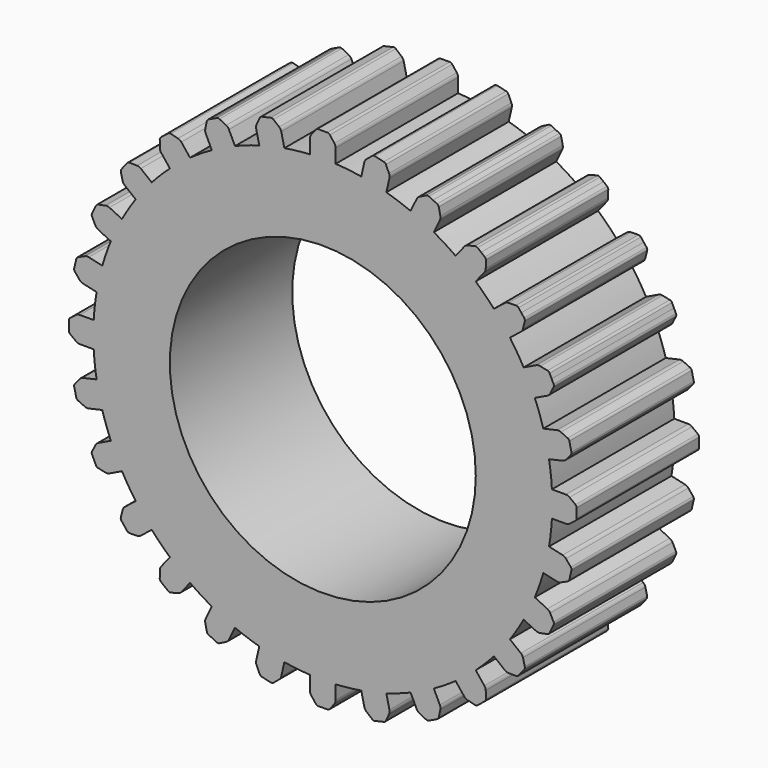
from build123d import *

# Parameters (mm, degrees)
F0_R     = 5
F1_DEPTH = 2.5


with BuildPart() as f1:
    # F0 (on Front) → F1 (new body, symmetric)
    with BuildSketch(Plane.XZ):
        with BuildLine():
            ThreePointArc((7.206926, 2.076106), (7.311959, 1.668907), (7.394005, 1.256461))
            Line((7.394005, 1.256461), (7.838439, 1.3579))
            ThreePointArc((7.838439, 1.3579), (7.898762, 1.382559), (7.947955, 1.425301))
            Line((7.947955, 1.425301), (8.104797, 1.61464))
            ThreePointArc((8.104797, 1.61464), (8.125069, 1.655275), (8.12528, 1.700685))
            Line((8.12528, 1.700685), (8.091902, 1.846924))
            Line((8.091902, 1.846924), (8.058524, 1.993163))
            ThreePointArc((8.058524, 1.993163), (8.038631, 2.033984), (8.002736, 2.061799))
            Line((8.002736, 2.061799), (7.779275, 2.164336))
            ThreePointArc((7.779275, 2.164336), (7.716408, 2.181502), (7.65136, 2.177545))
            Line((7.65136, 2.177545), (7.206926, 2.076106))
        make_face()
        with BuildLine():
            ThreePointArc((6.564256, 3.627746), (6.757267, 3.254128), (6.929033, 2.87028))
            Line((6.929033, 2.87028), (7.339752, 3.068072))
            ThreePointArc((7.339752, 3.068072), (7.393075, 3.105535), (7.431523, 3.158152))
            Line((7.431523, 3.158152), (7.542301, 3.377645))
            ThreePointArc((7.542301, 3.377645), (7.553023, 3.421771), (7.543124, 3.46609))
            Line((7.543124, 3.46609), (7.478042, 3.601235))
            Line((7.478042, 3.601235), (7.412959, 3.73638))
            ThreePointArc((7.412959, 3.73638), (7.384481, 3.771752), (7.343297, 3.790882))
            Line((7.343297, 3.790882), (7.102622, 3.841123))
            ThreePointArc((7.102622, 3.841123), (7.037512, 3.843869), (6.974976, 3.825537))
            Line((6.974976, 3.825537), (6.564256, 3.627746))
        make_face()
        with BuildLine():
            ThreePointArc((5.592427, 4.997475), (5.863736, 4.676174), (6.11661, 4.340171))
            Line((6.11661, 4.340171), (6.473019, 4.624397))
            ThreePointArc((6.473019, 4.624397), (6.516668, 4.672787), (6.542445, 4.73264))
            Line((6.542445, 4.73264), (6.601604, 4.97128))
            ThreePointArc((6.601604, 4.97128), (6.602237, 5.016686), (6.582725, 5.057691))
            Line((6.582725, 5.057691), (6.489201, 5.174965))
            Line((6.489201, 5.174965), (6.395678, 5.29224))
            ThreePointArc((6.395678, 5.29224), (6.360043, 5.320388), (6.315635, 5.329874))
            Line((6.315635, 5.329874), (6.069814, 5.3253))
            ThreePointArc((6.069814, 5.3253), (6.005725, 5.313489), (5.948836, 5.281701))
            Line((5.948836, 5.281701), (5.592427, 4.997475))
        make_face()
        with BuildLine():
            ThreePointArc((4.340171, 6.11661), (4.676174, 5.863736), (4.997475, 5.592427))
            Line((4.997475, 5.592427), (5.281701, 5.948836))
            ThreePointArc((5.281701, 5.948836), (5.313489, 6.005725), (5.3253, 6.069814))
            Line((5.3253, 6.069814), (5.329874, 6.315635))
            ThreePointArc((5.329874, 6.315635), (5.320388, 6.360043), (5.29224, 6.395678))
            Line((5.29224, 6.395678), (5.174965, 6.489201))
            Line((5.174965, 6.489201), (5.057691, 6.582725))
            ThreePointArc((5.057691, 6.582725), (5.016686, 6.602237), (4.97128, 6.601604))
            Line((4.97128, 6.601604), (4.73264, 6.542445))
            ThreePointArc((4.73264, 6.542445), (4.672787, 6.516668), (4.624397, 6.473019))
            Line((4.624397, 6.473019), (4.340171, 6.11661))
        make_face()
        with BuildLine():
            ThreePointArc((2.87028, 6.929033), (3.254128, 6.757267), (3.627746, 6.564256))
            Line((3.627746, 6.564256), (3.825537, 6.974976))
            ThreePointArc((3.825537, 6.974976), (3.843869, 7.037512), (3.841123, 7.102622))
            Line((3.841123, 7.102622), (3.790882, 7.343297))
            ThreePointArc((3.790882, 7.343297), (3.771752, 7.384481), (3.73638, 7.412959))
            Line((3.73638, 7.412959), (3.601235, 7.478042))
            Line((3.601235, 7.478042), (3.46609, 7.543124))
            ThreePointArc((3.46609, 7.543124), (3.421771, 7.553023), (3.377645, 7.542301))
            Line((3.377645, 7.542301), (3.158152, 7.431523))
            ThreePointArc((3.158152, 7.431523), (3.105535, 7.393075), (3.068072, 7.339752))
            Line((3.068072, 7.339752), (2.87028, 6.929033))
        make_face()
        with BuildLine():
            ThreePointArc((1.256461, 7.394005), (1.668907, 7.311959), (2.076106, 7.206926))
            Line((2.076106, 7.206926), (2.177545, 7.65136))
            ThreePointArc((2.177545, 7.65136), (2.181502, 7.716408), (2.164336, 7.779275))
            Line((2.164336, 7.779275), (2.061799, 8.002736))
            ThreePointArc((2.061799, 8.002736), (2.033984, 8.038631), (1.993163, 8.058524))
            Line((1.993163, 8.058524), (1.846924, 8.091902))
            Line((1.846924, 8.091902), (1.700685, 8.12528))
            ThreePointArc((1.700685, 8.12528), (1.655275, 8.125069), (1.61464, 8.104797))
            Line((1.61464, 8.104797), (1.425301, 7.947955))
            ThreePointArc((1.425301, 7.947955), (1.382559, 7.898762), (1.3579, 7.838439))
            Line((1.3579, 7.838439), (1.256461, 7.394005))
        make_face()
        with BuildLine():
            ThreePointArc((-2.076106, 7.206926), (-1.668907, 7.311959), (-1.256461, 7.394005))
            Line((-1.256461, 7.394005), (-1.3579, 7.838439))
            ThreePointArc((-1.3579, 7.838439), (-1.382559, 7.898762), (-1.425301, 7.947955))
            Line((-1.425301, 7.947955), (-1.61464, 8.104797))
            ThreePointArc((-1.61464, 8.104797), (-1.655275, 8.125069), (-1.700685, 8.12528))
            Line((-1.700685, 8.12528), (-1.846924, 8.091902))
            Line((-1.846924, 8.091902), (-1.993163, 8.058524))
            ThreePointArc((-1.993163, 8.058524), (-2.033984, 8.038631), (-2.061799, 8.002736))
            Line((-2.061799, 8.002736), (-2.164336, 7.779275))
            ThreePointArc((-2.164336, 7.779275), (-2.181502, 7.716408), (-2.177545, 7.65136))
            Line((-2.177545, 7.65136), (-2.076106, 7.206926))
        make_face()
        with BuildLine():
            ThreePointArc((-3.627746, 6.564256), (-3.254128, 6.757267), (-2.87028, 6.929033))
            Line((-2.87028, 6.929033), (-3.068072, 7.339752))
            ThreePointArc((-3.068072, 7.339752), (-3.105535, 7.393075), (-3.158152, 7.431523))
            Line((-3.158152, 7.431523), (-3.377645, 7.542301))
            ThreePointArc((-3.377645, 7.542301), (-3.421771, 7.553023), (-3.46609, 7.543124))
            Line((-3.46609, 7.543124), (-3.601235, 7.478042))
            Line((-3.601235, 7.478042), (-3.73638, 7.412959))
            ThreePointArc((-3.73638, 7.412959), (-3.771752, 7.384481), (-3.790882, 7.343297))
            Line((-3.790882, 7.343297), (-3.841123, 7.102622))
            ThreePointArc((-3.841123, 7.102622), (-3.843869, 7.037512), (-3.825537, 6.974976))
            Line((-3.825537, 6.974976), (-3.627746, 6.564256))
        make_face()
        with BuildLine():
            ThreePointArc((-4.997475, 5.592427), (-4.676174, 5.863736), (-4.340171, 6.11661))
            Line((-4.340171, 6.11661), (-4.624397, 6.473019))
            ThreePointArc((-4.624397, 6.473019), (-4.672787, 6.516668), (-4.73264, 6.542445))
            Line((-4.73264, 6.542445), (-4.97128, 6.601604))
            ThreePointArc((-4.97128, 6.601604), (-5.016686, 6.602237), (-5.057691, 6.582725))
            Line((-5.057691, 6.582725), (-5.174965, 6.489201))
            Line((-5.174965, 6.489201), (-5.29224, 6.395678))
            ThreePointArc((-5.29224, 6.395678), (-5.320388, 6.360043), (-5.329874, 6.315635))
            Line((-5.329874, 6.315635), (-5.3253, 6.069814))
            ThreePointArc((-5.3253, 6.069814), (-5.313489, 6.005725), (-5.281701, 5.948836))
            Line((-5.281701, 5.948836), (-4.997475, 5.592427))
        make_face()
        with BuildLine():
            ThreePointArc((-6.11661, 4.340171), (-5.863736, 4.676174), (-5.592427, 4.997475))
            Line((-5.592427, 4.997475), (-5.948836, 5.281701))
            ThreePointArc((-5.948836, 5.281701), (-6.005725, 5.313489), (-6.069814, 5.3253))
            Line((-6.069814, 5.3253), (-6.315635, 5.329874))
            ThreePointArc((-6.315635, 5.329874), (-6.360043, 5.320388), (-6.395678, 5.29224))
            Line((-6.395678, 5.29224), (-6.489201, 5.174965))
            Line((-6.489201, 5.174965), (-6.582725, 5.057691))
            ThreePointArc((-6.582725, 5.057691), (-6.602237, 5.016686), (-6.601604, 4.97128))
            Line((-6.601604, 4.97128), (-6.542445, 4.73264))
            ThreePointArc((-6.542445, 4.73264), (-6.516668, 4.672787), (-6.473019, 4.624397))
            Line((-6.473019, 4.624397), (-6.11661, 4.340171))
        make_face()
        with BuildLine():
            ThreePointArc((-6.929033, 2.87028), (-6.757267, 3.254128), (-6.564256, 3.627746))
            Line((-6.564256, 3.627746), (-6.974976, 3.825537))
            ThreePointArc((-6.974976, 3.825537), (-7.037512, 3.843869), (-7.102622, 3.841123))
            Line((-7.102622, 3.841123), (-7.343297, 3.790882))
            ThreePointArc((-7.343297, 3.790882), (-7.384481, 3.771752), (-7.412959, 3.73638))
            Line((-7.412959, 3.73638), (-7.478042, 3.601235))
            Line((-7.478042, 3.601235), (-7.543124, 3.46609))
            ThreePointArc((-7.543124, 3.46609), (-7.553023, 3.421771), (-7.542301, 3.377645))
            Line((-7.542301, 3.377645), (-7.431523, 3.158152))
            ThreePointArc((-7.431523, 3.158152), (-7.393075, 3.105535), (-7.339752, 3.068072))
            Line((-7.339752, 3.068072), (-6.929033, 2.87028))
        make_face()
        with BuildLine():
            ThreePointArc((-7.394005, 1.256461), (-7.311959, 1.668907), (-7.206926, 2.076106))
            Line((-7.206926, 2.076106), (-7.65136, 2.177545))
            ThreePointArc((-7.65136, 2.177545), (-7.716408, 2.181502), (-7.779275, 2.164336))
            Line((-7.779275, 2.164336), (-8.002736, 2.061799))
            ThreePointArc((-8.002736, 2.061799), (-8.038631, 2.033984), (-8.058524, 1.993163))
            Line((-8.058524, 1.993163), (-8.091902, 1.846924))
            Line((-8.091902, 1.846924), (-8.12528, 1.700685))
            ThreePointArc((-8.12528, 1.700685), (-8.125069, 1.655275), (-8.104797, 1.61464))
            Line((-8.104797, 1.61464), (-7.947955, 1.425301))
            ThreePointArc((-7.947955, 1.425301), (-7.898762, 1.382559), (-7.838439, 1.3579))
            Line((-7.838439, 1.3579), (-7.394005, 1.256461))
        make_face()
        with BuildLine():
            Line((-7.944074, -0.420362), (-7.48821, -0.420362))
            ThreePointArc((-7.48821, -0.420362), (-7.5, 0), (-7.48821, 0.420362))
            Line((-7.48821, 0.420362), (-7.944074, 0.420362))
            ThreePointArc((-7.944074, 0.420362), (-8.008371, 0.409745), (-8.065842, 0.37902))
            Line((-8.065842, 0.37902), (-8.260884, 0.229329))
            ThreePointArc((-8.260884, 0.229329), (-8.289689, 0.194224), (-8.3, 0.15))
            Line((-8.3, 0.15), (-8.3, 0))
            Line((-8.3, 0), (-8.3, -0.15))
            ThreePointArc((-8.3, -0.15), (-8.289689, -0.194224), (-8.260884, -0.229329))
            Line((-8.260884, -0.229329), (-8.065842, -0.37902))
            ThreePointArc((-8.065842, -0.37902), (-8.008371, -0.409745), (-7.944074, -0.420362))
        make_face()
        with BuildLine():
            Line((-7.65136, -2.177545), (-7.206926, -2.076106))
            ThreePointArc((-7.206926, -2.076106), (-7.311959, -1.668907), (-7.394005, -1.256461))
            Line((-7.394005, -1.256461), (-7.838439, -1.3579))
            ThreePointArc((-7.838439, -1.3579), (-7.898762, -1.382559), (-7.947955, -1.425301))
            Line((-7.947955, -1.425301), (-8.104797, -1.61464))
            ThreePointArc((-8.104797, -1.61464), (-8.125069, -1.655275), (-8.12528, -1.700685))
            Line((-8.12528, -1.700685), (-8.091902, -1.846924))
            Line((-8.091902, -1.846924), (-8.058524, -1.993163))
            ThreePointArc((-8.058524, -1.993163), (-8.038631, -2.033984), (-8.002736, -2.061799))
            Line((-8.002736, -2.061799), (-7.779275, -2.164336))
            ThreePointArc((-7.779275, -2.164336), (-7.716408, -2.181502), (-7.65136, -2.177545))
        make_face()
        with BuildLine():
            Line((-6.974976, -3.825537), (-6.564256, -3.627746))
            ThreePointArc((-6.564256, -3.627746), (-6.757267, -3.254128), (-6.929033, -2.87028))
            Line((-6.929033, -2.87028), (-7.339752, -3.068072))
            ThreePointArc((-7.339752, -3.068072), (-7.393075, -3.105535), (-7.431523, -3.158152))
            Line((-7.431523, -3.158152), (-7.542301, -3.377645))
            ThreePointArc((-7.542301, -3.377645), (-7.553023, -3.421771), (-7.543124, -3.46609))
            Line((-7.543124, -3.46609), (-7.478042, -3.601235))
            Line((-7.478042, -3.601235), (-7.412959, -3.73638))
            ThreePointArc((-7.412959, -3.73638), (-7.384481, -3.771752), (-7.343297, -3.790882))
            Line((-7.343297, -3.790882), (-7.102622, -3.841123))
            ThreePointArc((-7.102622, -3.841123), (-7.037512, -3.843869), (-6.974976, -3.825537))
        make_face()
        with BuildLine():
            Line((-5.948836, -5.281701), (-5.592427, -4.997475))
            ThreePointArc((-5.592427, -4.997475), (-5.863736, -4.676174), (-6.11661, -4.340171))
            Line((-6.11661, -4.340171), (-6.473019, -4.624397))
            ThreePointArc((-6.473019, -4.624397), (-6.516668, -4.672787), (-6.542445, -4.73264))
            Line((-6.542445, -4.73264), (-6.601604, -4.97128))
            ThreePointArc((-6.601604, -4.97128), (-6.602237, -5.016686), (-6.582725, -5.057691))
            Line((-6.582725, -5.057691), (-6.489201, -5.174965))
            Line((-6.489201, -5.174965), (-6.395678, -5.29224))
            ThreePointArc((-6.395678, -5.29224), (-6.360043, -5.320388), (-6.315635, -5.329874))
            Line((-6.315635, -5.329874), (-6.069814, -5.3253))
            ThreePointArc((-6.069814, -5.3253), (-6.005725, -5.313489), (-5.948836, -5.281701))
        make_face()
        with BuildLine():
            Line((-4.624397, -6.473019), (-4.340171, -6.11661))
            ThreePointArc((-4.340171, -6.11661), (-4.676174, -5.863736), (-4.997475, -5.592427))
            Line((-4.997475, -5.592427), (-5.281701, -5.948836))
            ThreePointArc((-5.281701, -5.948836), (-5.313489, -6.005725), (-5.3253, -6.069814))
            Line((-5.3253, -6.069814), (-5.329874, -6.315635))
            ThreePointArc((-5.329874, -6.315635), (-5.320388, -6.360043), (-5.29224, -6.395678))
            Line((-5.29224, -6.395678), (-5.174965, -6.489201))
            Line((-5.174965, -6.489201), (-5.057691, -6.582725))
            ThreePointArc((-5.057691, -6.582725), (-5.016686, -6.602237), (-4.97128, -6.601604))
            Line((-4.97128, -6.601604), (-4.73264, -6.542445))
            ThreePointArc((-4.73264, -6.542445), (-4.672787, -6.516668), (-4.624397, -6.473019))
        make_face()
        with BuildLine():
            Line((-3.068072, -7.339752), (-2.87028, -6.929033))
            ThreePointArc((-2.87028, -6.929033), (-3.254128, -6.757267), (-3.627746, -6.564256))
            Line((-3.627746, -6.564256), (-3.825537, -6.974976))
            ThreePointArc((-3.825537, -6.974976), (-3.843869, -7.037512), (-3.841123, -7.102622))
            Line((-3.841123, -7.102622), (-3.790882, -7.343297))
            ThreePointArc((-3.790882, -7.343297), (-3.771752, -7.384481), (-3.73638, -7.412959))
            Line((-3.73638, -7.412959), (-3.601235, -7.478042))
            Line((-3.601235, -7.478042), (-3.46609, -7.543124))
            ThreePointArc((-3.46609, -7.543124), (-3.421771, -7.553023), (-3.377645, -7.542301))
            Line((-3.377645, -7.542301), (-3.158152, -7.431523))
            ThreePointArc((-3.158152, -7.431523), (-3.105535, -7.393075), (-3.068072, -7.339752))
        make_face()
        with BuildLine():
            Line((-1.3579, -7.838439), (-1.256461, -7.394005))
            ThreePointArc((-1.256461, -7.394005), (-1.668907, -7.311959), (-2.076106, -7.206926))
            Line((-2.076106, -7.206926), (-2.177545, -7.65136))
            ThreePointArc((-2.177545, -7.65136), (-2.181502, -7.716408), (-2.164336, -7.779275))
            Line((-2.164336, -7.779275), (-2.061799, -8.002736))
            ThreePointArc((-2.061799, -8.002736), (-2.033984, -8.038631), (-1.993163, -8.058524))
            Line((-1.993163, -8.058524), (-1.846924, -8.091902))
            Line((-1.846924, -8.091902), (-1.700685, -8.12528))
            ThreePointArc((-1.700685, -8.12528), (-1.655275, -8.125069), (-1.61464, -8.104797))
            Line((-1.61464, -8.104797), (-1.425301, -7.947955))
            ThreePointArc((-1.425301, -7.947955), (-1.382559, -7.898762), (-1.3579, -7.838439))
        make_face()
        with BuildLine():
            Line((0.420362, -7.944074), (0.420362, -7.48821))
            ThreePointArc((0.420362, -7.48821), (0, -7.5), (-0.420362, -7.48821))
            Line((-0.420362, -7.48821), (-0.420362, -7.944074))
            ThreePointArc((-0.420362, -7.944074), (-0.409745, -8.008371), (-0.37902, -8.065842))
            Line((-0.37902, -8.065842), (-0.229329, -8.260884))
            ThreePointArc((-0.229329, -8.260884), (-0.194224, -8.289689), (-0.15, -8.3))
            Line((-0.15, -8.3), (0, -8.3))
            Line((0, -8.3), (0.15, -8.3))
            ThreePointArc((0.15, -8.3), (0.194224, -8.289689), (0.229329, -8.260884))
            Line((0.229329, -8.260884), (0.37902, -8.065842))
            ThreePointArc((0.37902, -8.065842), (0.409745, -8.008371), (0.420362, -7.944074))
        make_face()
        with BuildLine():
            Line((2.177545, -7.65136), (2.076106, -7.206926))
            ThreePointArc((2.076106, -7.206926), (1.668907, -7.311959), (1.256461, -7.394005))
            Line((1.256461, -7.394005), (1.3579, -7.838439))
            ThreePointArc((1.3579, -7.838439), (1.382559, -7.898762), (1.425301, -7.947955))
            Line((1.425301, -7.947955), (1.61464, -8.104797))
            ThreePointArc((1.61464, -8.104797), (1.655275, -8.125069), (1.700685, -8.12528))
            Line((1.700685, -8.12528), (1.846924, -8.091902))
            Line((1.846924, -8.091902), (1.993163, -8.058524))
            ThreePointArc((1.993163, -8.058524), (2.033984, -8.038631), (2.061799, -8.002736))
            Line((2.061799, -8.002736), (2.164336, -7.779275))
            ThreePointArc((2.164336, -7.779275), (2.181502, -7.716408), (2.177545, -7.65136))
        make_face()
        with BuildLine():
            Line((3.825537, -6.974976), (3.627746, -6.564256))
            ThreePointArc((3.627746, -6.564256), (3.254128, -6.757267), (2.87028, -6.929033))
            Line((2.87028, -6.929033), (3.068072, -7.339752))
            ThreePointArc((3.068072, -7.339752), (3.105535, -7.393075), (3.158152, -7.431523))
            Line((3.158152, -7.431523), (3.377645, -7.542301))
            ThreePointArc((3.377645, -7.542301), (3.421771, -7.553023), (3.46609, -7.543124))
            Line((3.46609, -7.543124), (3.601235, -7.478042))
            Line((3.601235, -7.478042), (3.73638, -7.412959))
            ThreePointArc((3.73638, -7.412959), (3.771752, -7.384481), (3.790882, -7.343297))
            Line((3.790882, -7.343297), (3.841123, -7.102622))
            ThreePointArc((3.841123, -7.102622), (3.843869, -7.037512), (3.825537, -6.974976))
        make_face()
        with BuildLine():
            Line((5.281701, -5.948836), (4.997475, -5.592427))
            ThreePointArc((4.997475, -5.592427), (4.676174, -5.863736), (4.340171, -6.11661))
            Line((4.340171, -6.11661), (4.624397, -6.473019))
            ThreePointArc((4.624397, -6.473019), (4.672787, -6.516668), (4.73264, -6.542445))
            Line((4.73264, -6.542445), (4.97128, -6.601604))
            ThreePointArc((4.97128, -6.601604), (5.016686, -6.602237), (5.057691, -6.582725))
            Line((5.057691, -6.582725), (5.174965, -6.489201))
            Line((5.174965, -6.489201), (5.29224, -6.395678))
            ThreePointArc((5.29224, -6.395678), (5.320388, -6.360043), (5.329874, -6.315635))
            Line((5.329874, -6.315635), (5.3253, -6.069814))
            ThreePointArc((5.3253, -6.069814), (5.313489, -6.005725), (5.281701, -5.948836))
        make_face()
        with BuildLine():
            Line((6.473019, -4.624397), (6.11661, -4.340171))
            ThreePointArc((6.11661, -4.340171), (5.863736, -4.676174), (5.592427, -4.997475))
            Line((5.592427, -4.997475), (5.948836, -5.281701))
            ThreePointArc((5.948836, -5.281701), (6.005725, -5.313489), (6.069814, -5.3253))
            Line((6.069814, -5.3253), (6.315635, -5.329874))
            ThreePointArc((6.315635, -5.329874), (6.360043, -5.320388), (6.395678, -5.29224))
            Line((6.395678, -5.29224), (6.489201, -5.174965))
            Line((6.489201, -5.174965), (6.582725, -5.057691))
            ThreePointArc((6.582725, -5.057691), (6.602237, -5.016686), (6.601604, -4.97128))
            Line((6.601604, -4.97128), (6.542445, -4.73264))
            ThreePointArc((6.542445, -4.73264), (6.516668, -4.672787), (6.473019, -4.624397))
        make_face()
        with BuildLine():
            Line((7.339752, -3.068072), (6.929033, -2.87028))
            ThreePointArc((6.929033, -2.87028), (6.757267, -3.254128), (6.564256, -3.627746))
            Line((6.564256, -3.627746), (6.974976, -3.825537))
            ThreePointArc((6.974976, -3.825537), (7.037512, -3.843869), (7.102622, -3.841123))
            Line((7.102622, -3.841123), (7.343297, -3.790882))
            ThreePointArc((7.343297, -3.790882), (7.384481, -3.771752), (7.412959, -3.73638))
            Line((7.412959, -3.73638), (7.478042, -3.601235))
            Line((7.478042, -3.601235), (7.543124, -3.46609))
            ThreePointArc((7.543124, -3.46609), (7.553023, -3.421771), (7.542301, -3.377645))
            Line((7.542301, -3.377645), (7.431523, -3.158152))
            ThreePointArc((7.431523, -3.158152), (7.393075, -3.105535), (7.339752, -3.068072))
        make_face()
        with BuildLine():
            Line((7.838439, -1.3579), (7.394005, -1.256461))
            ThreePointArc((7.394005, -1.256461), (7.311959, -1.668907), (7.206926, -2.076106))
            Line((7.206926, -2.076106), (7.65136, -2.177545))
            ThreePointArc((7.65136, -2.177545), (7.716408, -2.181502), (7.779275, -2.164336))
            Line((7.779275, -2.164336), (8.002736, -2.061799))
            ThreePointArc((8.002736, -2.061799), (8.038631, -2.033984), (8.058524, -1.993163))
            Line((8.058524, -1.993163), (8.091902, -1.846924))
            Line((8.091902, -1.846924), (8.12528, -1.700685))
            ThreePointArc((8.12528, -1.700685), (8.125069, -1.655275), (8.104797, -1.61464))
            Line((8.104797, -1.61464), (7.947955, -1.425301))
            ThreePointArc((7.947955, -1.425301), (7.898762, -1.382559), (7.838439, -1.3579))
        make_face()
        with BuildLine():
            ThreePointArc((7.48821, 0.420362), (7.497052, 0.210263), (7.5, 0))
            ThreePointArc((7.5, 0), (7.497052, -0.210263), (7.48821, -0.420362))
            Line((7.48821, -0.420362), (7.944074, -0.420362))
            ThreePointArc((7.944074, -0.420362), (8.008371, -0.409745), (8.065842, -0.37902))
            Line((8.065842, -0.37902), (8.260884, -0.229329))
            ThreePointArc((8.260884, -0.229329), (8.289689, -0.194224), (8.3, -0.15))
            Line((8.3, -0.15), (8.3, 0))
            Line((8.3, 0), (8.3, 0.15))
            ThreePointArc((8.3, 0.15), (8.289689, 0.194224), (8.260884, 0.229329))
            Line((8.260884, 0.229329), (8.065842, 0.37902))
            ThreePointArc((8.065842, 0.37902), (8.008371, 0.409745), (7.944074, 0.420362))
            Line((7.944074, 0.420362), (7.48821, 0.420362))
        make_face()
        with BuildLine():
            ThreePointArc((0, 7.5), (0.210263, 7.497052), (0.420362, 7.48821))
            Line((0.420362, 7.48821), (0.420362, 7.944074))
            ThreePointArc((0.420362, 7.944074), (0.409745, 8.008371), (0.37902, 8.065842))
            Line((0.37902, 8.065842), (0.229329, 8.260884))
            ThreePointArc((0.229329, 8.260884), (0.194224, 8.289689), (0.15, 8.3))
            Line((0.15, 8.3), (0, 8.3))
            Line((0, 8.3), (0, 7.5))
        make_face()
        with BuildLine():
            ThreePointArc((-0.420362, 7.48821), (-0.210263, 7.497052), (0, 7.5))
            Line((0, 7.5), (0, 8.3))
            Line((0, 8.3), (-0.15, 8.3))
            ThreePointArc((-0.15, 8.3), (-0.194224, 8.289689), (-0.229329, 8.260884))
            Line((-0.229329, 8.260884), (-0.37902, 8.065842))
            ThreePointArc((-0.37902, 8.065842), (-0.409745, 8.008371), (-0.420362, 7.944074))
            Line((-0.420362, 7.944074), (-0.420362, 7.48821))
        make_face()
        with BuildLine():
            ThreePointArc((7.48821, -0.420362), (7.497052, -0.210263), (7.5, 0))
            ThreePointArc((7.5, 0), (7.497052, 0.210263), (7.48821, 0.420362))
            ThreePointArc((7.48821, 0.420362), (7.452842, 0.839734), (7.394005, 1.256461))
            ThreePointArc((7.394005, 1.256461), (7.311959, 1.668907), (7.206926, 2.076106))
            ThreePointArc((7.206926, 2.076106), (7.079125, 2.477093), (6.929033, 2.87028))
            ThreePointArc((6.929033, 2.87028), (6.757267, 3.254128), (6.564256, 3.627746))
            ThreePointArc((6.564256, 3.627746), (6.350431, 3.990241), (6.11661, 4.340171))
            ThreePointArc((6.11661, 4.340171), (5.863736, 4.676174), (5.592427, 4.997475))
            ThreePointArc((5.592427, 4.997475), (5.303301, 5.303301), (4.997475, 5.592427))
            ThreePointArc((4.997475, 5.592427), (4.676174, 5.863736), (4.340171, 6.11661))
            ThreePointArc((4.340171, 6.11661), (3.990241, 6.350431), (3.627746, 6.564256))
            ThreePointArc((3.627746, 6.564256), (3.254128, 6.757267), (2.87028, 6.929033))
            ThreePointArc((2.87028, 6.929033), (2.477093, 7.079125), (2.076106, 7.206926))
            ThreePointArc((2.076106, 7.206926), (1.668907, 7.311959), (1.256461, 7.394005))
            ThreePointArc((1.256461, 7.394005), (0.839734, 7.452842), (0.420362, 7.48821))
            ThreePointArc((0.420362, 7.48821), (0.210263, 7.497052), (0, 7.5))
            ThreePointArc((0, 7.5), (-0.210263, 7.497052), (-0.420362, 7.48821))
            ThreePointArc((-0.420362, 7.48821), (-0.839734, 7.452842), (-1.256461, 7.394005))
            ThreePointArc((-1.256461, 7.394005), (-1.668907, 7.311959), (-2.076106, 7.206926))
            ThreePointArc((-2.076106, 7.206926), (-2.477093, 7.079125), (-2.87028, 6.929033))
            ThreePointArc((-2.87028, 6.929033), (-3.254128, 6.757267), (-3.627746, 6.564256))
            ThreePointArc((-3.627746, 6.564256), (-3.990241, 6.350431), (-4.340171, 6.11661))
            ThreePointArc((-4.340171, 6.11661), (-4.676174, 5.863736), (-4.997475, 5.592427))
            ThreePointArc((-4.997475, 5.592427), (-5.303301, 5.303301), (-5.592427, 4.997475))
            ThreePointArc((-5.592427, 4.997475), (-5.863736, 4.676174), (-6.11661, 4.340171))
            ThreePointArc((-6.11661, 4.340171), (-6.350431, 3.990241), (-6.564256, 3.627746))
            ThreePointArc((-6.564256, 3.627746), (-6.757267, 3.254128), (-6.929033, 2.87028))
            ThreePointArc((-6.929033, 2.87028), (-7.079125, 2.477093), (-7.206926, 2.076106))
            ThreePointArc((-7.206926, 2.076106), (-7.311959, 1.668907), (-7.394005, 1.256461))
            ThreePointArc((-7.394005, 1.256461), (-7.452842, 0.839734), (-7.48821, 0.420362))
            ThreePointArc((-7.48821, 0.420362), (-7.5, 0), (-7.48821, -0.420362))
            ThreePointArc((-7.48821, -0.420362), (-7.452842, -0.839734), (-7.394005, -1.256461))
            ThreePointArc((-7.394005, -1.256461), (-7.311959, -1.668907), (-7.206926, -2.076106))
            ThreePointArc((-7.206926, -2.076106), (-7.079125, -2.477093), (-6.929033, -2.87028))
            ThreePointArc((-6.929033, -2.87028), (-6.757267, -3.254128), (-6.564256, -3.627746))
            ThreePointArc((-6.564256, -3.627746), (-6.350431, -3.990241), (-6.11661, -4.340171))
            ThreePointArc((-6.11661, -4.340171), (-5.863736, -4.676174), (-5.592427, -4.997475))
            ThreePointArc((-5.592427, -4.997475), (-5.303301, -5.303301), (-4.997475, -5.592427))
            ThreePointArc((-4.997475, -5.592427), (-4.676174, -5.863736), (-4.340171, -6.11661))
            ThreePointArc((-4.340171, -6.11661), (-3.990241, -6.350431), (-3.627746, -6.564256))
            ThreePointArc((-3.627746, -6.564256), (-3.254128, -6.757267), (-2.87028, -6.929033))
            ThreePointArc((-2.87028, -6.929033), (-2.477093, -7.079125), (-2.076106, -7.206926))
            ThreePointArc((-2.076106, -7.206926), (-1.668907, -7.311959), (-1.256461, -7.394005))
            ThreePointArc((-1.256461, -7.394005), (-0.839734, -7.452842), (-0.420362, -7.48821))
            ThreePointArc((-0.420362, -7.48821), (0, -7.5), (0.420362, -7.48821))
            ThreePointArc((0.420362, -7.48821), (0.839734, -7.452842), (1.256461, -7.394005))
            ThreePointArc((1.256461, -7.394005), (1.668907, -7.311959), (2.076106, -7.206926))
            ThreePointArc((2.076106, -7.206926), (2.477093, -7.079125), (2.87028, -6.929033))
            ThreePointArc((2.87028, -6.929033), (3.254128, -6.757267), (3.627746, -6.564256))
            ThreePointArc((3.627746, -6.564256), (3.990241, -6.350431), (4.340171, -6.11661))
            ThreePointArc((4.340171, -6.11661), (4.676174, -5.863736), (4.997475, -5.592427))
            ThreePointArc((4.997475, -5.592427), (5.303301, -5.303301), (5.592427, -4.997475))
            ThreePointArc((5.592427, -4.997475), (5.863736, -4.676174), (6.11661, -4.340171))
            ThreePointArc((6.11661, -4.340171), (6.350431, -3.990241), (6.564256, -3.627746))
            ThreePointArc((6.564256, -3.627746), (6.757267, -3.254128), (6.929033, -2.87028))
            ThreePointArc((6.929033, -2.87028), (7.079125, -2.477093), (7.206926, -2.076106))
            ThreePointArc((7.206926, -2.076106), (7.311959, -1.668907), (7.394005, -1.256461))
            ThreePointArc((7.394005, -1.256461), (7.452842, -0.839734), (7.48821, -0.420362))
        make_face()
        Circle(F0_R, mode=Mode.SUBTRACT)
    extrude(amount=F1_DEPTH, both=True)


solid = f1.part
